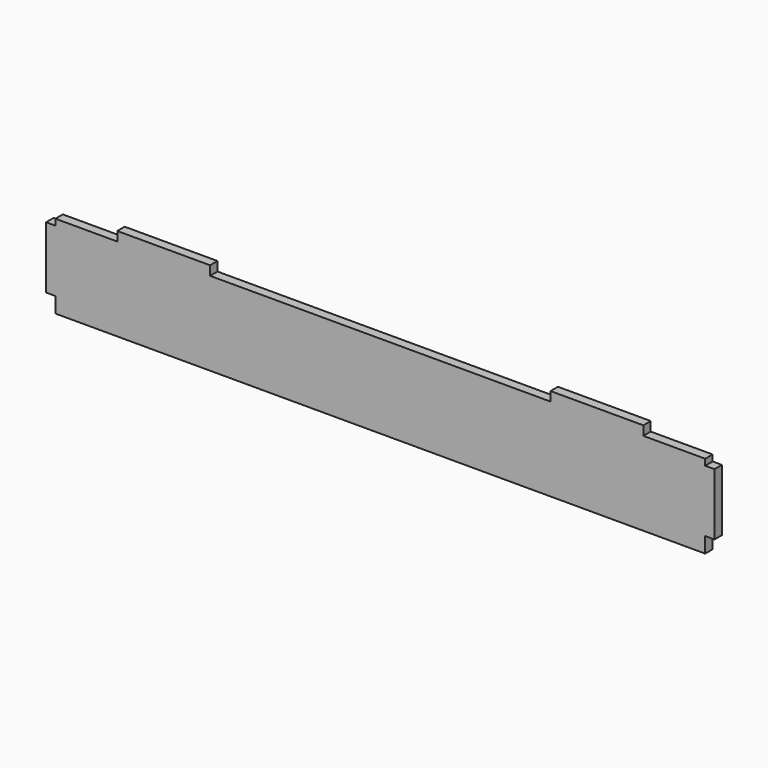
from build123d import *

# Parameters (mm, degrees)
F0_W     = 3
F0_H     = 20
F0_W_2   = 30
F0_H_2   = 3
F1_DEPTH = 3


with BuildPart() as f1:
    # F0 (on Front) → F1 (new body)
    with BuildSketch(Plane.XZ):
        with Locations((-1.5, 15)):
            Rectangle(F0_W, F0_H)
        with Locations((211.5, 15)):
            Rectangle(F0_W, F0_H)
        Polygon((0, 5), (0, 0), (210, 0), (210, 5), (210, 25), (210, 27), (190, 27), (160, 27), (50, 27), (20, 27), (0, 27), (0, 25), align=None)
        with Locations((35, 28.5)):
            Rectangle(F0_W_2, F0_H_2)
        with Locations((175, 28.5)):
            Rectangle(F0_W_2, F0_H_2)
    extrude(amount=F1_DEPTH)


solid = f1.part
